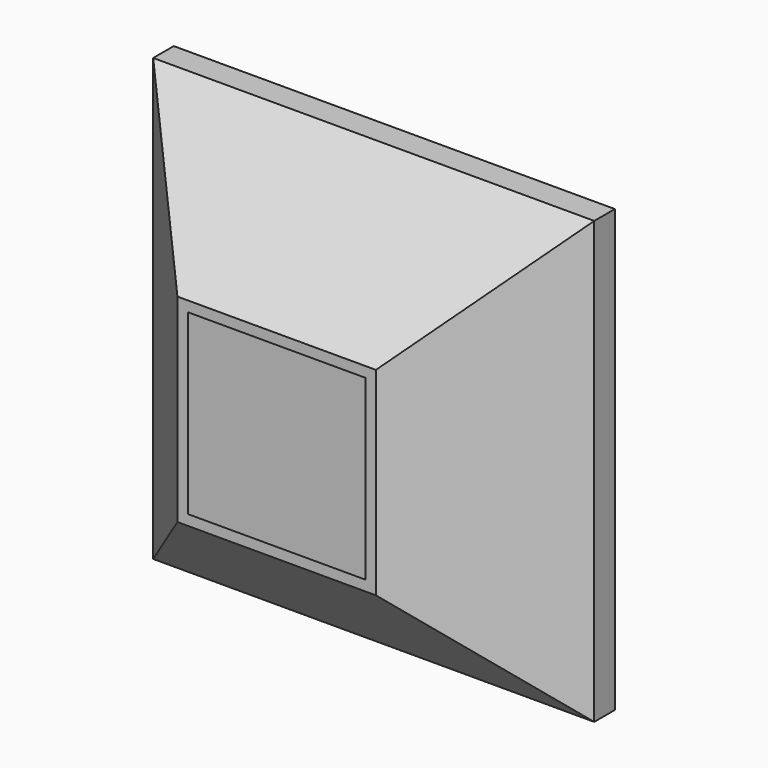
from build123d import *

# Parameters (mm, degrees)
F0_W     = 152.4
F0_H     = 152.4
F1_DEPTH = 50.8
F2_SIZE  = 41.91
F3_T     = -2.54


with BuildPart() as f1:
    # F0 (on Front) → F1 (new body)
    with BuildSketch(Plane.XZ):
        with Locations((-7.7e-05, 0.121411)):
            Rectangle(F0_W, F0_H)
    extrude(amount=F1_DEPTH)

    # F2
    f2_edges = [f1.edges().sort_by_distance(p)[0] for p in [
        (-7.7e-05, -50.8, 76.321411),
        (-76.200077, -50.8, 0.121411),
        (-7.7e-05, -50.8, -76.078589),
        (76.199923, -50.8, 0.121411),
    ]]
    chamfer(f2_edges, length=F2_SIZE)

    # F3
    f3_openings = [f1.faces().sort_by_distance(p)[0] for p in [
        (-7.7e-05, -50.8, 0.121411),
    ]]
    offset(amount=F3_T, openings=f3_openings)


solid = f1.part
